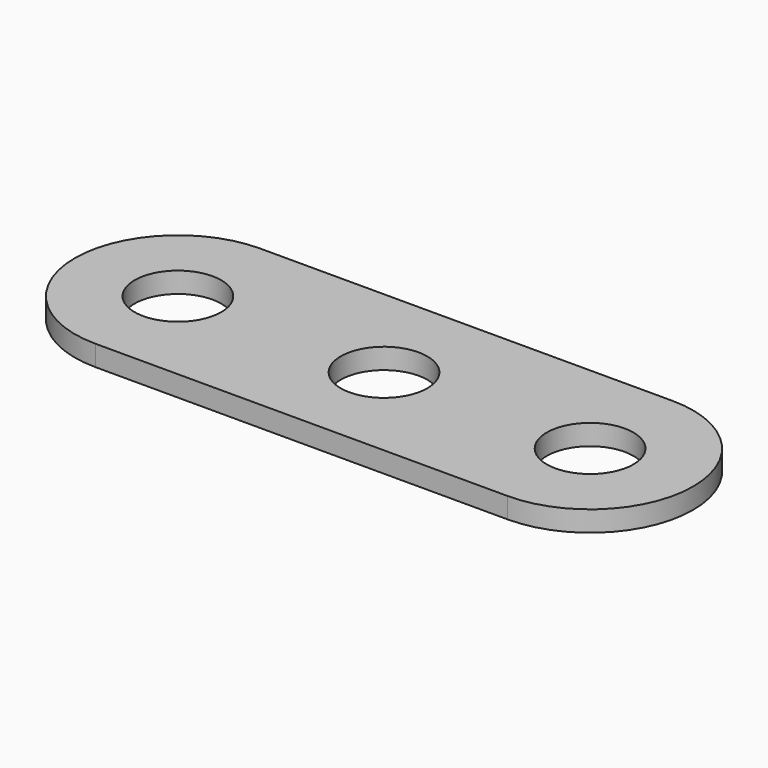
from build123d import *

# Parameters (mm, degrees)
SKETCH_R  = 2.1
PAD_DEPTH = 1


with BuildPart() as part:
    # Sketch → Pad (new body)
    with BuildSketch(Plane.XY):
        with BuildLine():
            ThreePointArc((0, 5), (-5, 0), (0, -5))
            Line((0, -5), (20, -5))
            ThreePointArc((20, -5), (25, 0), (20, 5))
            Line((0, 5), (20, 5))
        make_face()
        Circle(SKETCH_R, mode=Mode.SUBTRACT)
        with Locations((10, 0)):
            Circle(SKETCH_R, mode=Mode.SUBTRACT)
        with Locations((20, 0)):
            Circle(SKETCH_R, mode=Mode.SUBTRACT)
    extrude(amount=PAD_DEPTH)


solid = part.part
